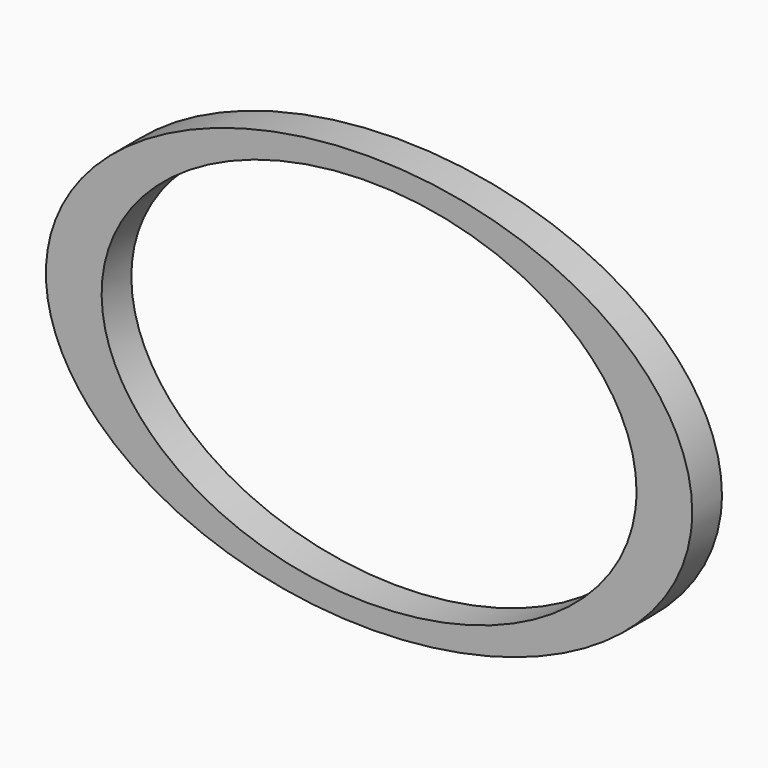
from build123d import *

# Parameters (mm, degrees)
F1_DEPTH = 12.7


with BuildPart() as f1:
    # F0 (on Front) → F1 (new body)
    with BuildSketch(Plane.XZ):
        with BuildLine():
            add(Edge.make_bspline(
                [(110.49, 0), (110.49, 123.183453), (-55.245, 61.591727), (-220.98, 0), (-55.245, -61.591727), (110.49, -123.183453), (110.49, 0)],
                knots=[0, 0, 0, 2.094395, 2.094395, 4.18879, 4.18879, 6.283185, 6.283185, 6.283185], degree=2, weights=[1, 0.5, 1, 0.5, 1, 0.5, 1]))
        make_face()
        with BuildLine():
            add(Edge.make_bspline(
                [(91.44, 0), (91.44, 109.985226), (-45.72, 54.992613), (-182.88, 0), (-45.72, -54.992613), (91.44, -109.985226), (91.44, 0)],
                knots=[0, 0, 0, 2.094395, 2.094395, 4.18879, 4.18879, 6.283185, 6.283185, 6.283185], degree=2, weights=[1, 0.5, 1, 0.5, 1, 0.5, 1]))
        make_face(mode=Mode.SUBTRACT)
    extrude(amount=F1_DEPTH)


solid = f1.part
